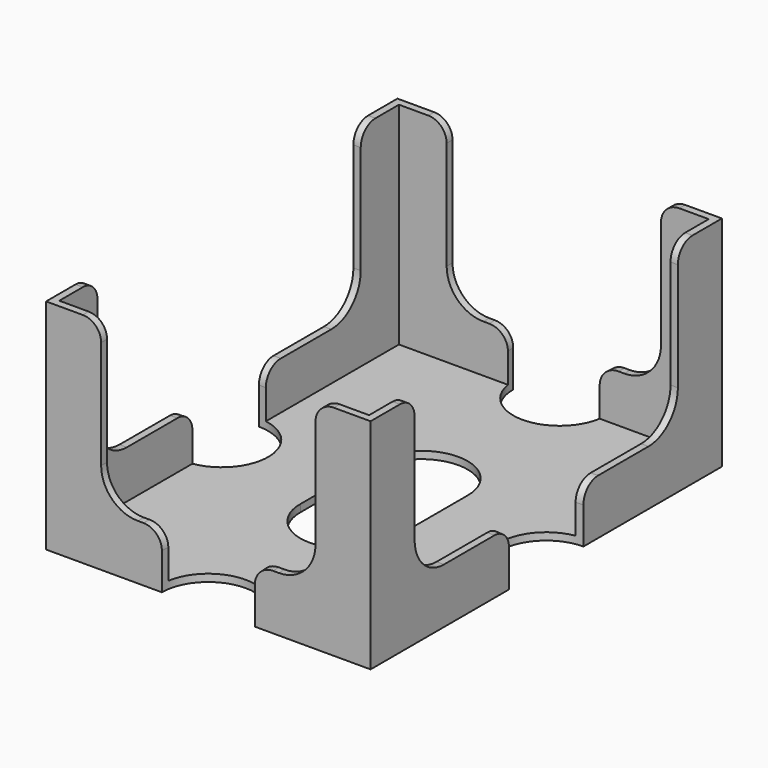
from build123d import *

# Parameters (mm, degrees)
SKETCH001_W          = 70.7
SKETCH001_H          = 95.7
PAD001_DEPTH         = 47.6
THICKNESS001_T       = -1.6
POCKET_DEPTH         = 47.851
POCKET_DEPTH_BACK    = 47.851
POCKET001_DEPTH      = 35.351
POCKET001_DEPTH_BACK = 35.351
SKETCH004_R          = 10.125
POCKET002_DEPTH      = 0.001
POCKET002_DEPTH_BACK = 47.601
FILLET_R             = 4


with BuildPart() as part:
    # Sketch001 → Pad001 (new body)
    with BuildSketch(Plane.XY):
        Rectangle(SKETCH001_W, SKETCH001_H)
    extrude(amount=PAD001_DEPTH)

    # Thickness001
    thickness001_openings = [part.faces().sort_by_distance(p)[0] for p in [
        (0, 0, 47.6),
    ]]
    offset(amount=THICKNESS001_T, openings=thickness001_openings, kind=Kind.INTERSECTION)

    # Sketch002 → Pocket (cut, two sides)
    with BuildSketch(Plane.XZ) as pocket_sk:
        with BuildLine():
            Line((-23.35, 47.6), (23.35, 47.6))
            Line((23.35, 47.6), (23.35, 20))
            ThreePointArc((15.35, 12), (21.006854, 14.343146), (23.35, 20))
            Line((15.35, 12), (-15.35, 12))
            ThreePointArc((-23.35, 20), (-21.006854, 14.343146), (-15.35, 12))
            Line((-23.35, 20), (-23.35, 47.6))
        make_face()
    extrude(amount=-POCKET_DEPTH, mode=Mode.SUBTRACT)
    extrude(pocket_sk.sketch, amount=POCKET_DEPTH_BACK, mode=Mode.SUBTRACT)

    # Sketch003 → Pocket001 (cut, two sides)
    with BuildSketch(Plane.YZ) as pocket001_sk:
        with BuildLine():
            Line((-35.85, 47.6), (35.85, 47.6))
            Line((35.85, 47.6), (35.85, 20))
            ThreePointArc((27.85, 12), (33.506854, 14.343146), (35.85, 20))
            Line((27.85, 12), (-27.85, 12))
            ThreePointArc((-35.85, 20), (-33.506854, 14.343146), (-27.85, 12))
            Line((-35.85, 20), (-35.85, 47.6))
        make_face()
    extrude(amount=-POCKET001_DEPTH, mode=Mode.SUBTRACT)
    extrude(pocket001_sk.sketch, amount=POCKET001_DEPTH_BACK, mode=Mode.SUBTRACT)

    # Sketch004 → Pocket002 (cut, two sides)
    with BuildSketch(Plane.XY) as pocket002_sk:
        with Locations((0, 47.85)):
            Circle(SKETCH004_R)
        with Locations((0, -47.85)):
            Circle(SKETCH004_R)
        with Locations((35.35, 0)):
            Circle(SKETCH004_R)
        with Locations((-35.35, 0)):
            Circle(SKETCH004_R)
        with BuildLine():
            ThreePointArc((10.125, 10.125), (0, 20.25), (-10.125, 10.125))
            Line((-10.125, 10.125), (-10.125, -10.125))
            ThreePointArc((-10.125, -10.125), (0, -20.25), (10.125, -10.125))
            Line((10.125, 10.125), (10.125, -10.125))
        make_face()
    extrude(amount=-POCKET002_DEPTH, mode=Mode.SUBTRACT)
    extrude(pocket002_sk.sketch, amount=POCKET002_DEPTH_BACK, mode=Mode.SUBTRACT)

    # Fillet
    fillet_edges = [part.edges().sort_by_distance(p)[0] for p in [
        (34.547475, -10.093145, 12),
        (34.547475, 10.093145, 12),
        (34.55, 35.85, 47.6),
        (23.35, 47.05, 47.6),
        (10.093145, 47.047475, 12),
        (-10.093145, 47.047475, 12),
        (-23.35, 47.05, 47.6),
        (-34.55, 35.85, 47.6),
        (-34.547475, 10.093145, 12),
        (-34.547475, -10.093145, 12),
        (-34.55, -35.85, 47.6),
        (-23.35, -47.05, 47.6),
        (-10.093145, -47.047475, 12),
        (10.093145, -47.047475, 12),
        (23.35, -47.05, 47.6),
        (34.55, -35.85, 47.6),
    ]]
    fillet(fillet_edges, radius=FILLET_R)


solid = part.part
